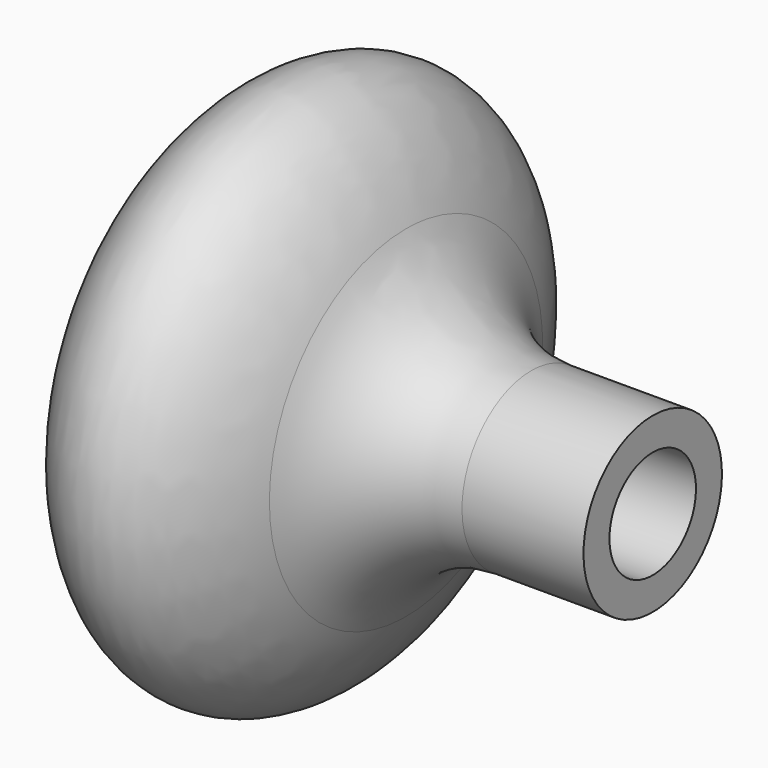
from build123d import *

# Parameters (mm, degrees)
F2_R = 12.5


with BuildPart() as f1:
    # F0 (on Front) → F1 (revolve)
    with BuildSketch(Plane.XZ):
        with BuildLine():
            add(Edge.make_bspline(
                [(-20.6572807177, 8), (-24.0536425523, 28.1110798944), (-34.5268212762, 24.6691706804), (-45, 21.2272614664), (-45, 0)],
                knots=[5.0381184677, 5.0381184677, 5.0381184677, 6.4460500508, 6.4460500508, 7.853981634, 7.853981634, 7.853981634], degree=2, weights=[1, 0.7622813464, 1, 0.7622813464, 1]))
            Line((-45, 0), (-13, 0))
            Line((-13, 0), (-13, 5))
            Line((-13, 5), (0, 5))
            Line((0, 5), (0, 8))
            Line((0, 8), (-20.6572807177, 8))
        make_face()
    revolve(axis=Axis((-29, 0, 0), (1, 0, 0)))

    # F2
    f2_edges = [f1.edges().sort_by_distance(p)[0] for p in [
        (-20.657281, 0, -8),
    ]]
    fillet(f2_edges, radius=F2_R)


solid = f1.part
